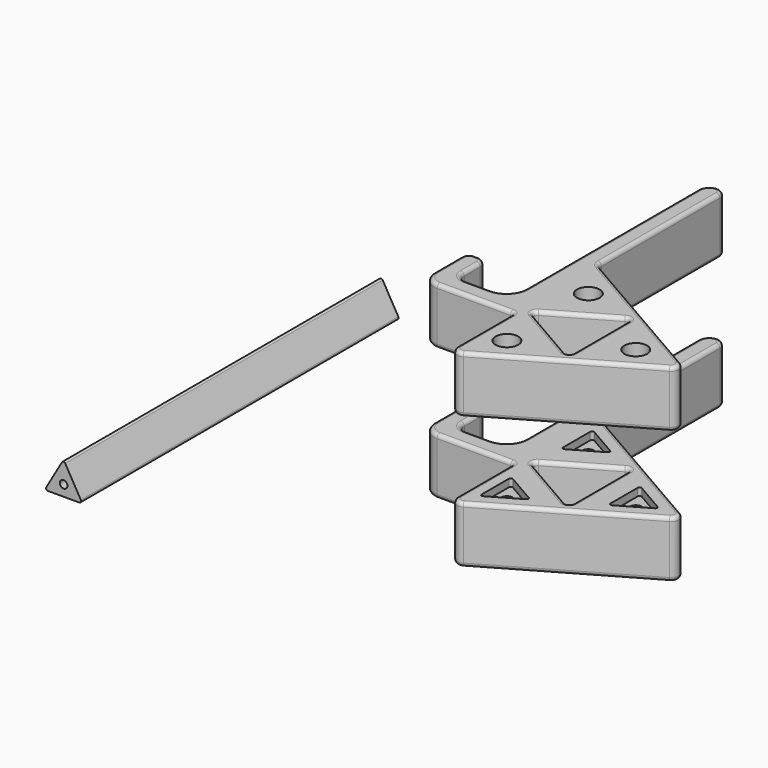
from build123d import *

# Parameters (mm, degrees)
F1_DEPTH       = 15
F2_R           = 1
F4_D           = 3
F4_CBORE_D     = 6
F4_CBORE_DEPTH = 10
F6_DEPTH       = 105
F7_R           = 0.5
F9_R           = 1
F10_DEPTH      = 10
F8_R           = 1
F11_DEPTH      = 10
F13_DEPTH      = 2
F14_R          = 0.5


with BuildPart() as f1:
    # F0 (on Top) → F1 (new body)
    with BuildSketch(Plane.XY):
        with BuildLine():
            Line((0, 62), (0, 5.1))
            ThreePointArc((0, 5.1), (-1.493755, 1.493755), (-5.1, 0))
            Line((-5.1, 0), (-11.65, 0))
            ThreePointArc((-11.65, 0), (-13.594544, 0.805456), (-14.4, 2.75))
            Line((-14.4, 2.75), (-14.4, 8))
            ThreePointArc((-14.4, 8), (-14.985786, 9.414214), (-16.4, 10))
            Line((-16.4, 10), (-17.4, 10))
            ThreePointArc((-17.4, 10), (-18.814214, 9.414214), (-19.4, 8))
            Line((-19.4, 8), (-19.4, -1))
            ThreePointArc((-19.4, -1), (-18.228427, -3.828427), (-15.4, -5))
            Line((-15.4, -5), (3.999896, -5))
            ThreePointArc((3.999896, -5), (4.707003, -5.292893), (4.999896, -6))
            Line((4.999896, -6), (4.999896, -23.813898))
            ThreePointArc((4.999896, -23.813898), (5.999896, -25.545949), (7.999896, -25.545949))
            Line((7.999896, -25.545949), (45.301167, -4.010051))
            ThreePointArc((45.301167, -4.010051), (46.301167, -2.278), (45.301167, -0.545949))
            Line((45.301167, -0.545949), (5.999896, 22.14465))
            ThreePointArc((5.999896, 22.14465), (5.267846, 22.876701), (4.999896, 23.876701))
            Line((4.999896, 23.876701), (4.999896, 62.99994))
            ThreePointArc((4.999896, 62.99994), (4.414168, 64.414156), (3, 65))
            Line((3, 65), (2.999896, 65))
            ThreePointArc((2.999896, 65), (0.878643, 64.121284), (0, 62))
        make_face()
        with BuildLine():
            Line((25.650531, 6.757898), (25.650531, -11.313898))
            ThreePointArc((25.650531, -11.313898), (25.150531, -12.179924), (24.150531, -12.179924))
            Line((24.150531, -12.179924), (8.499896, -3.144025))
            ThreePointArc((8.499896, -3.144025), (7.999896, -2.278), (8.499896, -1.411975))
            Line((8.499896, -1.411975), (24.150531, 7.623924))
            ThreePointArc((24.150531, 7.623924), (25.150531, 7.623924), (25.650531, 6.757898))
        make_face(mode=Mode.SUBTRACT)
    extrude(amount=F1_DEPTH)

    # F2
    f2_edges = [f1.edges().sort_by_distance(p)[0] for p in [
        (0, 33.55, 0),
        (0.878643, 64.121284, 0),
        (-8.375, 0, 15),
        (25.650531, -2.278, 0),
        (16.325214, -7.661975, 15),
    ]]
    fillet(f2_edges, radius=F2_R)

    # F4 (through all)
    with Locations(Plane.XY.offset(15)):
        with Locations((11.662555, 11.181936), (11.662555, -15.737936), (34.975849, -2.278)):
            CounterBoreHole(F4_D / 2, F4_CBORE_D / 2, F4_CBORE_DEPTH)

    # F12 (on face) → F13 (cut)
    with BuildSketch(Plane.XY):
        Polygon((8.575804, -21.084345), (17.836056, -15.737936), (8.575804, -10.391528), align=None)
        Polygon((31.889098, -7.624409), (41.14935, -2.278), (31.889098, 3.068409), align=None)
        Polygon((8.575804, 5.835528), (17.836056, 11.181936), (8.575804, 16.528345), align=None)
    extrude(amount=F13_DEPTH, mode=Mode.SUBTRACT)

    # F14
    f14_edges = [f1.edges().sort_by_distance(p)[0] for p in [
        (8.575804, -21.084345, 1),
        (17.836056, -15.737936, 1),
        (8.575804, -10.391528, 1),
        (8.575804, 16.528345, 1),
        (8.575804, 5.835528, 1),
        (17.836056, 11.181936, 1),
        (41.14935, -2.278, 1),
        (31.889098, 3.068409, 1),
        (31.889098, -7.624409, 1),
    ]]
    fillet(f14_edges, radius=F14_R)


with BuildPart() as f6:
    # F5 (on Front) → F6 (new body)
    with BuildSketch(Plane.XZ):
        Polygon((-34.226266, 8.660254), (-39.226266, 0), (-29.226266, 0), align=None)
    extrude(amount=F6_DEPTH)

    # F7
    f7_edges = [f6.edges().sort_by_distance(p)[0] for p in [
        (-34.226266, -52.5, 8.660254),
        (-29.226266, -52.5, 0),
        (-39.226266, -52.5, 0),
    ]]
    fillet(f7_edges, radius=F7_R)

    # F9 (on face) → F10 (cut)
    with BuildSketch(Plane(origin=(0, 0, 0), x_dir=(-1, 0, 0), z_dir=(0, 1, 0))):
        with Locations((34.226266, 2.886751)):
            Circle(F9_R)
    extrude(amount=-F10_DEPTH, mode=Mode.SUBTRACT)

    # F8 (on face) → F11 (cut)
    with BuildSketch(Plane.XZ.offset(105)):
        with Locations((-34.226266, 2.886751)):
            Circle(F8_R)
    extrude(amount=-F11_DEPTH, mode=Mode.SUBTRACT)


with BuildPart() as f16_1:
    # F16: instance of F1
    add(f1.part.mirror(Plane.XY.offset(-10)))


solid = Compound([f1.part, f6.part, f16_1.part])
